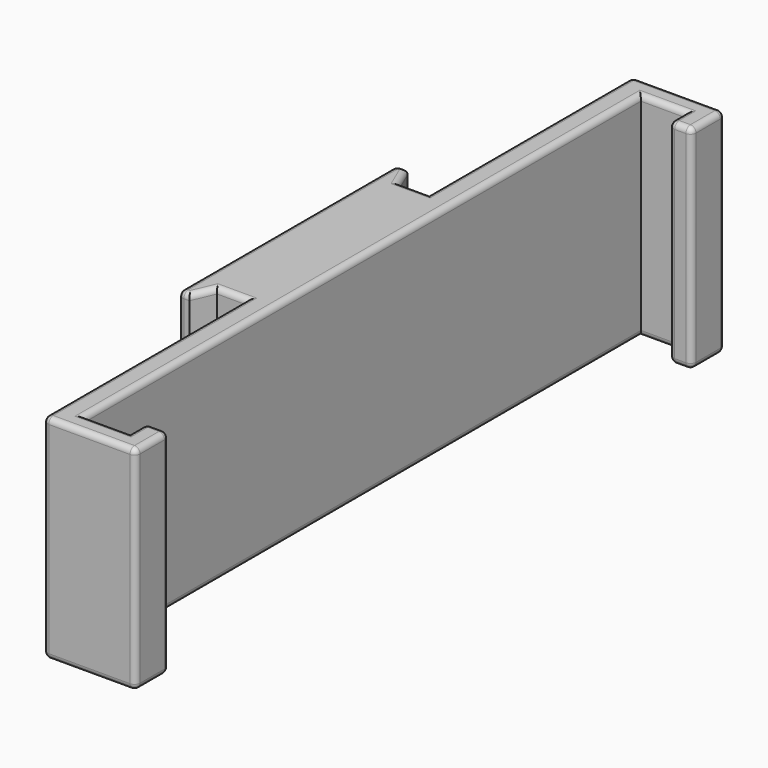
from build123d import *

# Parameters (mm, degrees)
F1_DEPTH = 4
F2_DEPTH = 38
F3_R     = 1


with BuildPart() as f1:
    # F0 (on Top) → F1 (new body)
    with BuildSketch(Plane.XY):
        Polygon((0, 20.327126), (0, 0), (0, -20.327126), (0, -65.713919), (12.5, -65.713919), (16.5, -65.713919), (16.5, -62), (16.5, -58.286081), (12.5, -58.286081), (12.5, -62), (4.5, -62), (4.5, 0), (4.5, 62), (12.5, 62), (12.5, 58.286081), (16.5, 58.286081), (16.5, 62), (16.5, 65.713919), (12.5, 65.713919), (0, 65.713919), align=None)
        Polygon((0, -20.327126), (0, 0), (0, 20.327126), (-5.289079, 20.327126), (-7, 24.327126), (-9, 24.327126), (-9, 0), (-9, -24.327126), (-7, -24.327126), (-5.289079, -20.327126), align=None)
    extrude(amount=-F1_DEPTH)

    # F0 (on Top) → F2 (join)
    with BuildSketch(Plane.XY):
        Polygon((0, -20.327126), (0, 0), (0, 20.327126), (-5.289079, 20.327126), (-7, 24.327126), (-9, 24.327126), (-9, 0), (-9, -24.327126), (-7, -24.327126), (-5.289079, -20.327126), align=None)
        Polygon((0, 20.327126), (0, 0), (0, -20.327126), (0, -65.713919), (12.5, -65.713919), (16.5, -65.713919), (16.5, -62), (16.5, -58.286081), (12.5, -58.286081), (12.5, -62), (4.5, -62), (4.5, 0), (4.5, 62), (12.5, 62), (12.5, 58.286081), (16.5, 58.286081), (16.5, 62), (16.5, 65.713919), (12.5, 65.713919), (0, 65.713919), align=None)
    extrude(amount=-F2_DEPTH)

    # F3
    f3_edges = [f1.edges().sort_by_distance(p)[0] for p in [
        (0, -43.020523, 0),
        (8.25, -65.713919, 0),
        (16.5, -62, 0),
        (14.5, -58.286081, 0),
        (12.5, -60.143041, 0),
        (8.5, -62, 0),
        (4.5, 0, 0),
        (8.5, 62, 0),
        (12.5, 60.143041, 0),
        (14.5, 58.286081, 0),
        (16.5, 62, 0),
        (8.25, 65.713919, 0),
        (0, 43.020523, 0),
        (-2.64454, 20.327126, 0),
        (-6.14454, 22.327126, 0),
        (-8, 24.327126, 0),
        (-9, 0, 0),
        (-8, -24.327126, 0),
        (-6.14454, -22.327126, 0),
        (-2.64454, -20.327126, 0),
        (8.25, -65.713919, -38),
        (16.5, -62, -38),
        (14.5, -58.286081, -38),
        (12.5, -60.143041, -38),
        (8.5, -62, -38),
        (4.5, 0, -38),
        (8.5, 62, -38),
        (12.5, 60.143041, -38),
        (14.5, 58.286081, -38),
        (16.5, 62, -38),
        (8.25, 65.713919, -38),
        (0, 43.020523, -38),
        (-2.64454, 20.327126, -38),
        (-6.14454, 22.327126, -38),
        (-8, 24.327126, -38),
        (-9, 0, -38),
        (-8, -24.327126, -38),
        (-6.14454, -22.327126, -38),
        (-2.64454, -20.327126, -38),
        (0, -43.020523, -38),
        (16.5, -58.286081, -19),
        (12.5, -58.286081, -19),
        (12.5, 58.286081, -19),
        (16.5, 58.286081, -19),
        (-9, 24.327126, -19),
        (-9, -24.327126, -19),
        (16.5, 65.713919, -19),
        (0, 65.713919, -19),
        (0, -65.713919, -19),
        (16.5, -65.713919, -19),
    ]]
    fillet(f3_edges, radius=F3_R)


solid = f1.part
